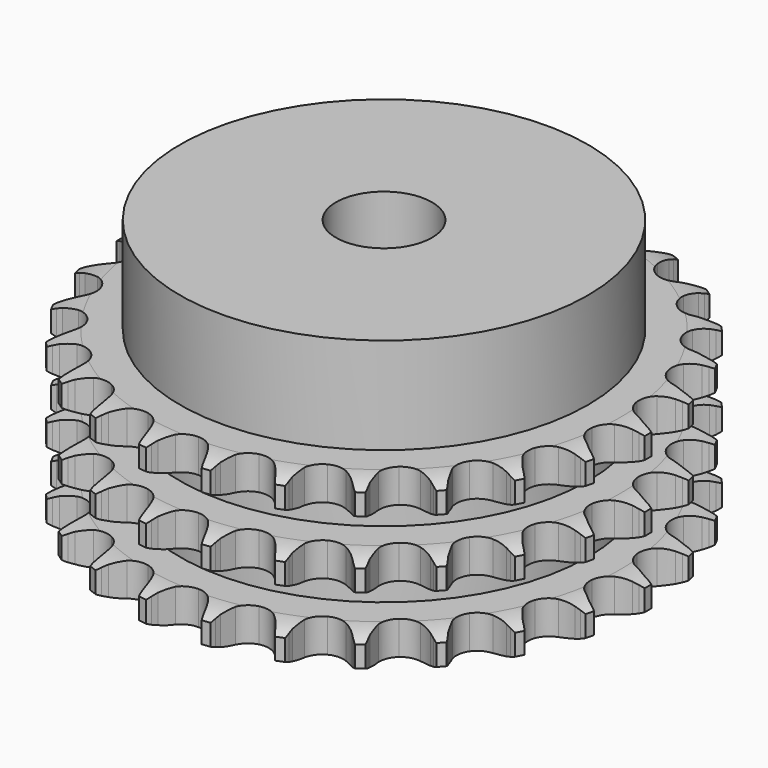
from build123d import *

# Parameters (mm, degrees)
PAD_DEPTH         = 34.9
SKETCH001_R       = 42.5
PAD001_DEPTH      = 55
SKETCH002_R       = 10
POCKET_DEPTH      = 0.001
POCKET_DEPTH_BACK = 55.001


with BuildPart() as part:
    # Sprocket → Pad (new body)
    with BuildSketch(Plane.XY):
        with BuildLine():
            ThreePointArc((-6.807588, 56.065527), (-5.967528, 54.999781), (-5.35026, 53.791272))
            Line((-5.35026, 53.791272), (-4.936158, 52.737939))
            ThreePointArc((-4.936158, 52.737939), (-4.276403, 51.349942), (-3.43162, 50.066137))
            ThreePointArc((-3.43162, 50.066137), (-1.91469, 48.814822), (0, 48.366684))
            ThreePointArc((0, 48.366684), (1.91469, 48.814822), (3.43162, 50.066137))
            ThreePointArc((3.43162, 50.066137), (4.276403, 51.349942), (4.936158, 52.737939))
            Line((4.936158, 52.737939), (5.35026, 53.791272))
            ThreePointArc((5.35026, 53.791272), (5.967528, 54.999781), (6.807588, 56.065527))
            ThreePointArc((6.807588, 56.065527), (7.368186, 54.829711), (7.678303, 53.508597))
            Line((7.678303, 53.508597), (7.828293, 52.38677))
            ThreePointArc((7.828293, 52.38677), (8.136707, 50.881216), (8.649708, 49.432547))
            ThreePointArc((8.649708, 49.432547), (9.823099, 47.854567), (11.574905, 46.961236))
            ThreePointArc((11.574905, 46.961236), (13.541204, 46.938136), (15.313514, 47.790066))
            Line((15.313514, 47.790066), (17.413737, 50.02417))
            ThreePointArc((17.413737, 50.02417), (17.729055, 50.494309), (18.067885, 50.947795))
            ThreePointArc((18.067885, 50.947795), (18.956432, 51.973465), (20.02713, 52.807203))
            ThreePointArc((20.02713, 52.807203), (20.275689, 51.473137), (20.260631, 50.116196))
            Line((20.260631, 50.116196), (20.137792, 48.991073))
            ThreePointArc((20.137792, 48.991073), (20.076941, 47.455459), (20.228346, 45.926116))
            ThreePointArc((20.228346, 45.926116), (20.990005, 44.113179), (22.477119, 42.826572))
            ThreePointArc((22.477119, 42.826572), (24.380753, 42.333577), (26.305443, 42.73661))
            Line((26.305443, 42.73661), (28.879293, 44.403179))
            ThreePointArc((28.879293, 44.403179), (29.29796, 44.784195), (29.735471, 45.143416))
            ThreePointArc((29.735471, 45.143416), (30.843657, 45.926639), (32.082769, 46.479915))
            ThreePointArc((32.082769, 46.479915), (32.004842, 45.125131), (31.665484, 43.811224))
            Line((31.665484, 43.811224), (31.276955, 42.748192))
            ThreePointArc((31.276955, 42.748192), (30.850376, 41.271763), (30.631386, 39.750627))
            ThreePointArc((30.631386, 39.750627), (30.937048, 37.808093), (32.073044, 36.202983))
            ThreePointArc((32.073044, 36.202983), (33.803381, 35.268744), (35.768594, 35.199457))
            Line((35.768594, 35.199457), (38.666489, 36.201636))
            ThreePointArc((38.666489, 36.201636), (39.164174, 36.471387), (39.674939, 36.715467))
            ThreePointArc((39.674939, 36.715467), (40.93836, 37.210724), (42.273874, 37.451384))
            ThreePointArc((42.273874, 37.451384), (41.87399, 36.154616), (41.230055, 34.960103))
            Line((41.230055, 34.960103), (40.598416, 34.020942))
            ThreePointArc((40.598416, 34.020942), (39.8309, 32.689502), (39.254241, 31.264975))
            ThreePointArc((39.254241, 31.264975), (39.086143, 29.305739), (39.805001, 27.475408))
            ThreePointArc((39.805001, 27.475408), (41.261479, 26.15422), (43.153006, 25.61664))
            Line((43.153006, 25.61664), (46.20653, 25.896186))
            ThreePointArc((46.20653, 25.896186), (46.754308, 26.038995), (47.308644, 26.153748))
            ThreePointArc((47.308644, 26.153748), (48.653875, 26.332257), (50.008175, 26.246315))
            ThreePointArc((50.008175, 26.246315), (49.309574, 25.082927), (48.398485, 24.077228))
            Line((48.398485, 24.077228), (47.560444, 23.316518))
            ThreePointArc((47.560444, 23.316518), (46.496596, 22.207446), (45.595782, 20.962317))
            ThreePointArc((45.595782, 20.962317), (44.963693, 19.100241), (45.223635, 17.151063))
            ThreePointArc((45.223635, 17.151063), (46.32161, 15.519708), (48.029521, 14.545077))
            Line((48.029521, 14.545077), (51.061215, 14.085743))
            ThreePointArc((51.061215, 14.085743), (51.627253, 14.09331), (52.192942, 14.072068))
            ThreePointArc((52.192942, 14.072068), (53.541804, 13.923455), (54.836182, 13.515905))
            ThreePointArc((54.836182, 13.515905), (53.879465, 12.553509), (52.754171, 11.795072))
            Line((52.754171, 11.795072), (51.758432, 11.257024))
            ThreePointArc((51.758432, 11.257024), (50.460079, 10.434775), (49.287463, 9.441405))
            ThreePointArc((49.287463, 9.441405), (48.228116, 7.784707), (48.014037, 5.82996))
            ThreePointArc((48.014037, 5.82996), (48.689697, 3.983247), (50.114735, 2.628207))
            Line((50.114735, 2.628207), (52.948408, 1.456689))
            ThreePointArc((52.948408, 1.456689), (53.499808, 1.328574), (54.043976, 1.172571))
            ThreePointArc((54.043976, 1.172571), (55.318077, 0.705473), (56.47731, 0))
            ThreePointArc((56.47731, 0), (55.318077, -0.705473), (54.043976, -1.172571))
            Line((54.043976, -1.172571), (52.948408, -1.456689))
            ThreePointArc((52.948408, -1.456689), (51.491006, -1.944328), (50.114735, -2.628207))
            ThreePointArc((50.114735, -2.628207), (48.689697, -3.983247), (48.014037, -5.82996))
            ThreePointArc((48.014037, -5.82996), (48.228116, -7.784707), (49.287463, -9.441405))
            Line((49.287463, -9.441405), (51.758432, -11.257024))
            ThreePointArc((51.758432, -11.257024), (52.26315, -11.513374), (52.754171, -11.795072))
            ThreePointArc((52.754171, -11.795072), (53.879465, -12.553509), (54.836182, -13.515905))
            ThreePointArc((54.836182, -13.515905), (53.541804, -13.923455), (52.192942, -14.072068))
            Line((52.192942, -14.072068), (51.061215, -14.085743))
            ThreePointArc((51.061215, -14.085743), (49.529463, -14.210434), (48.029521, -14.545077))
            ThreePointArc((48.029521, -14.545077), (46.32161, -15.519708), (45.223635, -17.151063))
            ThreePointArc((45.223635, -17.151063), (44.963693, -19.100241), (45.595782, -20.962317))
            Line((45.595782, -20.962317), (47.560444, -23.316518))
            ThreePointArc((47.560444, -23.316518), (47.989147, -23.686207), (48.398485, -24.077228))
            ThreePointArc((48.398485, -24.077228), (49.309574, -25.082927), (50.008175, -26.246315))
            ThreePointArc((50.008175, -26.246315), (48.653875, -26.332257), (47.308644, -26.153748))
            Line((47.308644, -26.153748), (46.20653, -25.896186))
            ThreePointArc((46.20653, -25.896186), (44.689447, -25.650681), (43.153006, -25.61664))
            ThreePointArc((43.153006, -25.61664), (41.261479, -26.15422), (39.805001, -27.475408))
            ThreePointArc((39.805001, -27.475408), (39.086143, -29.305739), (39.254241, -31.264975))
            Line((39.254241, -31.264975), (40.598416, -34.020942))
            ThreePointArc((40.598416, -34.020942), (40.926189, -34.482483), (41.230055, -34.960103))
            ThreePointArc((41.230055, -34.960103), (41.87399, -36.154616), (42.273874, -37.451384))
            ThreePointArc((42.273874, -37.451384), (40.93836, -37.210724), (39.674939, -36.715467))
            Line((39.674939, -36.715467), (38.666489, -36.201636))
            ThreePointArc((38.666489, -36.201636), (37.252243, -35.600204), (35.768594, -35.199457))
            ThreePointArc((35.768594, -35.199457), (33.803381, -35.268744), (32.073044, -36.202983))
            ThreePointArc((32.073044, -36.202983), (30.937048, -37.808093), (30.631386, -39.750627))
            Line((30.631386, -39.750627), (31.276955, -42.748192))
            ThreePointArc((31.276955, -42.748192), (31.48475, -43.274763), (31.665484, -43.811224))
            ThreePointArc((31.665484, -43.811224), (32.004842, -45.125131), (32.082769, -46.479915))
            ThreePointArc((32.082769, -46.479915), (30.843657, -45.926639), (29.735471, -45.143416))
            Line((29.735471, -45.143416), (28.879293, -44.403179))
            ThreePointArc((28.879293, -44.403179), (27.650075, -43.480772), (26.305443, -42.73661))
            ThreePointArc((26.305443, -42.73661), (24.380753, -42.333577), (22.477119, -42.826572))
            ThreePointArc((22.477119, -42.826572), (20.990005, -44.113179), (20.228346, -45.926116))
            Line((20.228346, -45.926116), (20.137792, -48.991073))
            ThreePointArc((20.137792, -48.991073), (20.213532, -49.552071), (20.260631, -50.116196))
            ThreePointArc((20.260631, -50.116196), (20.275689, -51.473137), (20.02713, -52.807203))
            ThreePointArc((20.02713, -52.807203), (18.956432, -51.973465), (18.067885, -50.947795))
            Line((18.067885, -50.947795), (17.413737, -50.02417))
            ThreePointArc((17.413737, -50.02417), (16.440984, -48.834396), (15.313514, -47.790066))
            ThreePointArc((15.313514, -47.790066), (13.541204, -46.938136), (11.574905, -46.961236))
            ThreePointArc((11.574905, -46.961236), (9.823099, -47.854567), (8.649708, -49.432547))
            Line((8.649708, -49.432547), (7.828293, -52.38677))
            ThreePointArc((7.828293, -52.38677), (7.767577, -52.949593), (7.678303, -53.508597))
            ThreePointArc((7.678303, -53.508597), (7.368186, -54.829711), (6.807588, -56.065527))
            ThreePointArc((6.807588, -56.065527), (5.967528, -54.999781), (5.35026, -53.791272))
            Line((5.35026, -53.791272), (4.936158, -52.737939))
            ThreePointArc((4.936158, -52.737939), (4.276403, -51.349942), (3.43162, -50.066137))
            ThreePointArc((3.43162, -50.066137), (1.91469, -48.814822), (0, -48.366684))
            ThreePointArc((0, -48.366684), (-1.91469, -48.814822), (-3.43162, -50.066137))
            Line((-3.43162, -50.066137), (-4.936158, -52.737939))
            ThreePointArc((-4.936158, -52.737939), (-5.129802, -53.269876), (-5.35026, -53.791272))
            ThreePointArc((-5.35026, -53.791272), (-5.967528, -54.999781), (-6.807588, -56.065527))
            ThreePointArc((-6.807588, -56.065527), (-7.368186, -54.829711), (-7.678303, -53.508597))
            Line((-7.678303, -53.508597), (-7.828293, -52.38677))
            ThreePointArc((-7.828293, -52.38677), (-8.136707, -50.881216), (-8.649708, -49.432547))
            ThreePointArc((-8.649708, -49.432547), (-9.823099, -47.854567), (-11.574905, -46.961236))
            ThreePointArc((-11.574905, -46.961236), (-13.541204, -46.938136), (-15.313514, -47.790066))
            Line((-15.313514, -47.790066), (-17.413737, -50.02417))
            ThreePointArc((-17.413737, -50.02417), (-17.729055, -50.494309), (-18.067885, -50.947795))
            ThreePointArc((-18.067885, -50.947795), (-18.956432, -51.973465), (-20.02713, -52.807203))
            ThreePointArc((-20.02713, -52.807203), (-20.275689, -51.473137), (-20.260631, -50.116196))
            Line((-20.260631, -50.116196), (-20.137792, -48.991073))
            ThreePointArc((-20.137792, -48.991073), (-20.076941, -47.455459), (-20.228346, -45.926116))
            ThreePointArc((-20.228346, -45.926116), (-20.990005, -44.113179), (-22.477119, -42.826572))
            ThreePointArc((-22.477119, -42.826572), (-24.380753, -42.333577), (-26.305443, -42.73661))
            Line((-26.305443, -42.73661), (-28.879293, -44.403179))
            ThreePointArc((-28.879293, -44.403179), (-29.29796, -44.784195), (-29.735471, -45.143416))
            ThreePointArc((-29.735471, -45.143416), (-30.843657, -45.926639), (-32.082769, -46.479915))
            ThreePointArc((-32.082769, -46.479915), (-32.004842, -45.125131), (-31.665484, -43.811224))
            Line((-31.665484, -43.811224), (-31.276955, -42.748192))
            ThreePointArc((-31.276955, -42.748192), (-30.850376, -41.271763), (-30.631386, -39.750627))
            ThreePointArc((-30.631386, -39.750627), (-30.937048, -37.808093), (-32.073044, -36.202983))
            ThreePointArc((-32.073044, -36.202983), (-33.803381, -35.268744), (-35.768594, -35.199457))
            Line((-35.768594, -35.199457), (-38.666489, -36.201636))
            ThreePointArc((-38.666489, -36.201636), (-39.164174, -36.471387), (-39.674939, -36.715467))
            ThreePointArc((-39.674939, -36.715467), (-40.93836, -37.210724), (-42.273874, -37.451384))
            ThreePointArc((-42.273874, -37.451384), (-41.87399, -36.154616), (-41.230055, -34.960103))
            Line((-41.230055, -34.960103), (-40.598416, -34.020942))
            ThreePointArc((-40.598416, -34.020942), (-39.8309, -32.689502), (-39.254241, -31.264975))
            ThreePointArc((-39.254241, -31.264975), (-39.086143, -29.305739), (-39.805001, -27.475408))
            ThreePointArc((-39.805001, -27.475408), (-41.261479, -26.15422), (-43.153006, -25.61664))
            Line((-43.153006, -25.61664), (-46.20653, -25.896186))
            ThreePointArc((-46.20653, -25.896186), (-46.754308, -26.038995), (-47.308644, -26.153748))
            ThreePointArc((-47.308644, -26.153748), (-48.653875, -26.332257), (-50.008175, -26.246315))
            ThreePointArc((-50.008175, -26.246315), (-49.309574, -25.082927), (-48.398485, -24.077228))
            Line((-48.398485, -24.077228), (-47.560444, -23.316518))
            ThreePointArc((-47.560444, -23.316518), (-46.496596, -22.207446), (-45.595782, -20.962317))
            ThreePointArc((-45.595782, -20.962317), (-44.963693, -19.100241), (-45.223635, -17.151063))
            ThreePointArc((-45.223635, -17.151063), (-46.32161, -15.519708), (-48.029521, -14.545077))
            Line((-48.029521, -14.545077), (-51.061215, -14.085743))
            ThreePointArc((-51.061215, -14.085743), (-51.627253, -14.09331), (-52.192942, -14.072068))
            ThreePointArc((-52.192942, -14.072068), (-53.541804, -13.923455), (-54.836182, -13.515905))
            ThreePointArc((-54.836182, -13.515905), (-53.879465, -12.553509), (-52.754171, -11.795072))
            Line((-52.754171, -11.795072), (-51.758432, -11.257024))
            ThreePointArc((-51.758432, -11.257024), (-50.460079, -10.434775), (-49.287463, -9.441405))
            ThreePointArc((-49.287463, -9.441405), (-48.228116, -7.784707), (-48.014037, -5.82996))
            ThreePointArc((-48.014037, -5.82996), (-48.689697, -3.983247), (-50.114735, -2.628207))
            Line((-50.114735, -2.628207), (-52.948408, -1.456689))
            ThreePointArc((-52.948408, -1.456689), (-53.499808, -1.328574), (-54.043976, -1.172571))
            ThreePointArc((-54.043976, -1.172571), (-55.318077, -0.705473), (-56.47731, 0))
            ThreePointArc((-56.47731, 0), (-55.318077, 0.705473), (-54.043976, 1.172571))
            Line((-54.043976, 1.172571), (-52.948408, 1.456689))
            ThreePointArc((-52.948408, 1.456689), (-51.491006, 1.944328), (-50.114735, 2.628207))
            ThreePointArc((-50.114735, 2.628207), (-48.689697, 3.983247), (-48.014037, 5.82996))
            ThreePointArc((-48.014037, 5.82996), (-48.228116, 7.784707), (-49.287463, 9.441405))
            Line((-49.287463, 9.441405), (-51.758432, 11.257024))
            ThreePointArc((-51.758432, 11.257024), (-52.26315, 11.513374), (-52.754171, 11.795072))
            ThreePointArc((-52.754171, 11.795072), (-53.879465, 12.553509), (-54.836182, 13.515905))
            ThreePointArc((-54.836182, 13.515905), (-53.541804, 13.923455), (-52.192942, 14.072068))
            Line((-52.192942, 14.072068), (-51.061215, 14.085743))
            ThreePointArc((-51.061215, 14.085743), (-49.529463, 14.210434), (-48.029521, 14.545077))
            ThreePointArc((-48.029521, 14.545077), (-46.32161, 15.519708), (-45.223635, 17.151063))
            ThreePointArc((-45.223635, 17.151063), (-44.963693, 19.100241), (-45.595782, 20.962317))
            Line((-45.595782, 20.962317), (-47.560444, 23.316518))
            ThreePointArc((-47.560444, 23.316518), (-47.989147, 23.686207), (-48.398485, 24.077228))
            ThreePointArc((-48.398485, 24.077228), (-49.309574, 25.082927), (-50.008175, 26.246315))
            ThreePointArc((-50.008175, 26.246315), (-48.653875, 26.332257), (-47.308644, 26.153748))
            Line((-47.308644, 26.153748), (-46.20653, 25.896186))
            ThreePointArc((-46.20653, 25.896186), (-44.689447, 25.650681), (-43.153006, 25.61664))
            ThreePointArc((-43.153006, 25.61664), (-41.261479, 26.15422), (-39.805001, 27.475408))
            ThreePointArc((-39.805001, 27.475408), (-39.086143, 29.305739), (-39.254241, 31.264975))
            Line((-39.254241, 31.264975), (-40.598416, 34.020942))
            ThreePointArc((-40.598416, 34.020942), (-40.926189, 34.482483), (-41.230055, 34.960103))
            ThreePointArc((-41.230055, 34.960103), (-41.87399, 36.154616), (-42.273874, 37.451384))
            ThreePointArc((-42.273874, 37.451384), (-40.93836, 37.210724), (-39.674939, 36.715467))
            Line((-39.674939, 36.715467), (-38.666489, 36.201636))
            ThreePointArc((-38.666489, 36.201636), (-37.252243, 35.600204), (-35.768594, 35.199457))
            ThreePointArc((-35.768594, 35.199457), (-33.803381, 35.268744), (-32.073044, 36.202983))
            ThreePointArc((-32.073044, 36.202983), (-30.937048, 37.808093), (-30.631386, 39.750627))
            Line((-30.631386, 39.750627), (-31.276955, 42.748192))
            ThreePointArc((-31.276955, 42.748192), (-31.48475, 43.274763), (-31.665484, 43.811224))
            ThreePointArc((-31.665484, 43.811224), (-32.004842, 45.125131), (-32.082769, 46.479915))
            ThreePointArc((-32.082769, 46.479915), (-30.843657, 45.926639), (-29.735471, 45.143416))
            Line((-29.735471, 45.143416), (-28.879293, 44.403179))
            ThreePointArc((-28.879293, 44.403179), (-27.650075, 43.480772), (-26.305443, 42.73661))
            ThreePointArc((-26.305443, 42.73661), (-24.380753, 42.333577), (-22.477119, 42.826572))
            ThreePointArc((-22.477119, 42.826572), (-20.990005, 44.113179), (-20.228346, 45.926116))
            Line((-20.228346, 45.926116), (-20.137792, 48.991073))
            ThreePointArc((-20.137792, 48.991073), (-20.213532, 49.552071), (-20.260631, 50.116196))
            ThreePointArc((-20.260631, 50.116196), (-20.275689, 51.473137), (-20.02713, 52.807203))
            ThreePointArc((-20.02713, 52.807203), (-18.956432, 51.973465), (-18.067885, 50.947795))
            Line((-18.067885, 50.947795), (-17.413737, 50.02417))
            ThreePointArc((-17.413737, 50.02417), (-16.440984, 48.834396), (-15.313514, 47.790066))
            ThreePointArc((-15.313514, 47.790066), (-13.541204, 46.938136), (-11.574905, 46.961236))
            ThreePointArc((-11.574905, 46.961236), (-9.823099, 47.854567), (-8.649708, 49.432547))
            Line((-8.649708, 49.432547), (-7.828293, 52.38677))
            ThreePointArc((-7.828293, 52.38677), (-7.767577, 52.949593), (-7.678303, 53.508597))
            ThreePointArc((-7.678303, 53.508597), (-7.368186, 54.829711), (-6.807588, 56.065527))
        make_face()
    extrude(amount=PAD_DEPTH)

    # Sketch → Groove (revolve, cut)
    with BuildSketch(Plane.XZ):
        with BuildLine():
            ThreePointArc((49.333431, 0), (52.24032, 0.329167), (55, 1.3))
            Line((55, 1.3), (55, 5.7))
            ThreePointArc((55, 5.7), (52.24032, 6.670833), (49.333431, 7))
            Line((42.5, 7), (49.333431, 7))
            Line((42.5, 7), (42.5, 13.95))
            Line((42.5, 13.95), (49.333431, 13.95))
            ThreePointArc((49.333431, 13.95), (52.24032, 14.279167), (55, 15.25))
            Line((55, 19.65), (55, 15.25))
            ThreePointArc((55, 19.65), (52.24032, 20.620833), (49.333431, 20.95))
            Line((42.5, 20.95), (49.333431, 20.95))
            Line((42.5, 27.9), (42.5, 20.95))
            Line((49.333431, 27.9), (42.5, 27.9))
            ThreePointArc((49.333431, 27.9), (52.24032, 28.229167), (55, 29.2))
            Line((55, 29.2), (55, 33.6))
            ThreePointArc((55, 33.6), (52.24032, 34.570833), (49.333431, 34.9))
            Line((49.333431, 34.9), (65, 34.9))
            Line((65, 34.9), (65, 0))
            Line((49.333431, 0), (65, 0))
        make_face()
    revolve(axis=Axis((0, 0, 0), (0, 0, 1)), mode=Mode.SUBTRACT)

    # Sketch001 → Pad001 (join)
    with BuildSketch(Plane.XY):
        Circle(SKETCH001_R)
    extrude(amount=PAD001_DEPTH)

    # Sketch002 → Pocket (cut, two sides)
    with BuildSketch(Plane.XY) as pocket_sk:
        Circle(SKETCH002_R)
    extrude(amount=-POCKET_DEPTH, mode=Mode.SUBTRACT)
    extrude(pocket_sk.sketch, amount=POCKET_DEPTH_BACK, mode=Mode.SUBTRACT)


solid = part.part
